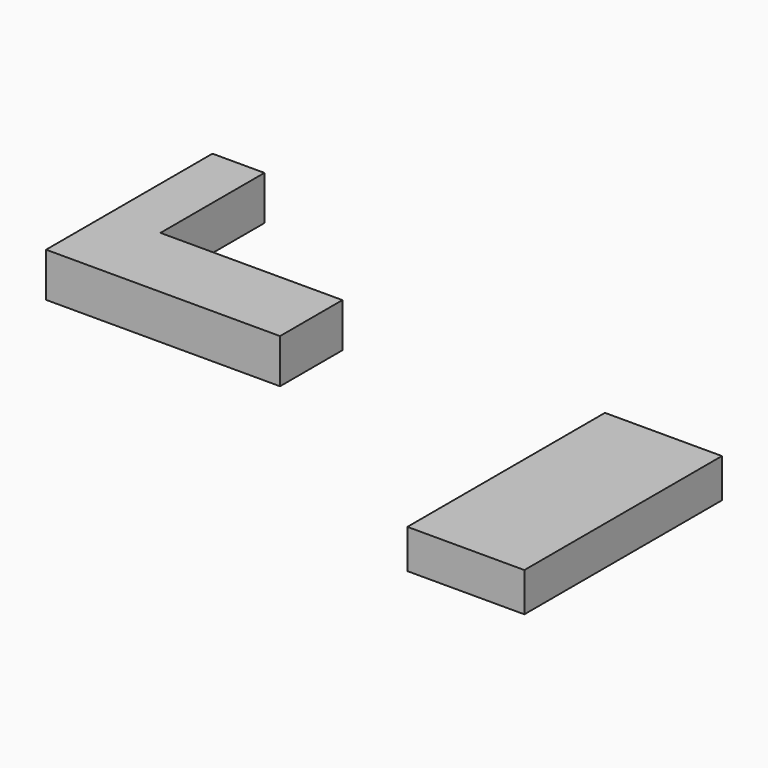
from build123d import *

# Parameters (mm, degrees)
F1_DEPTH = 3.4
F2_DEPTH = 3
F0_W     = 9
F0_H     = 2.456613
F3_DEPTH = 3


with BuildPart() as f1:
    # F0 (on Top) → F1 (new body)
    with BuildSketch(Plane.XY):
        Polygon((-18, 10), (-18, -6), (0, -6), (0, 0), (-14, 0), (-14, 10), align=None)
    extrude(amount=F1_DEPTH)


with BuildPart() as f2:
    # F0 (on Top) → F2 (new body)
    with BuildSketch(Plane.XY):
        Polygon((21, -15.038995), (30, -17.543387), (30, -1), (21, -1), align=None)
    extrude(amount=F2_DEPTH)

    # F0 (on Top) → F3 (join)
    with BuildSketch(Plane.XY):
        Polygon((21, -17.543387), (30, -17.543387), (21, -15.038995), align=None)
        with Locations((25.5, -18.771693)):
            Rectangle(F0_W, F0_H)
    extrude(amount=F3_DEPTH)


solid = Compound([f1.part, f2.part])
